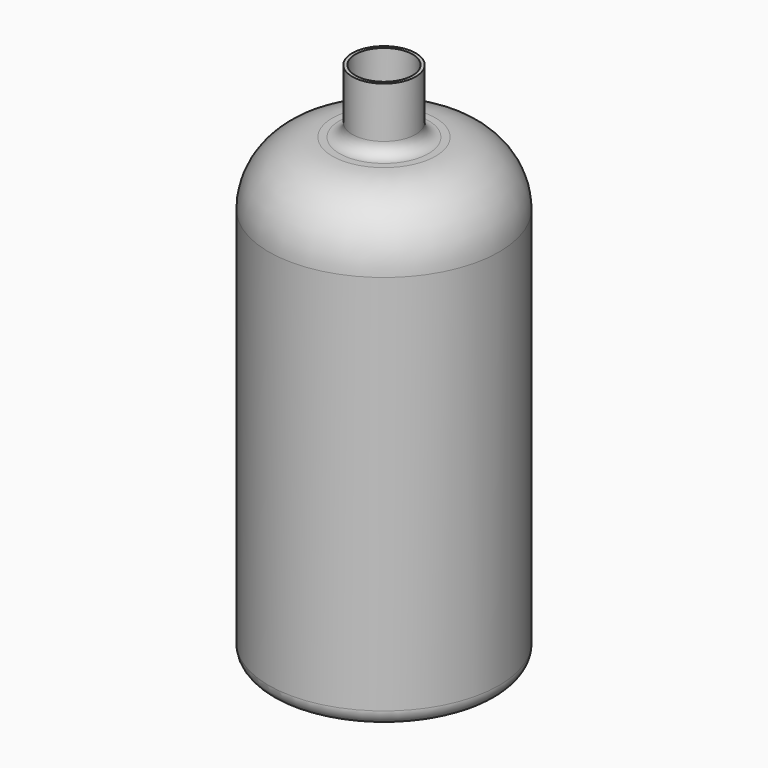
from build123d import *


with BuildPart() as f1:
    # F0 (on Front) → F1 (revolve)
    with BuildSketch(Plane.XZ):
        with BuildLine():
            Line((-39.6875, -104.775), (0, -104.775))
            Line((0, -104.775), (0, -103.505))
            Line((0, -103.505), (-39.6875, -103.505))
            ThreePointArc((-39.6875, -103.505), (-43.279602, -102.017102), (-44.7675, -98.425))
            Line((-44.7675, -98.425), (-44.7675, 53.975))
            ThreePointArc((-44.7675, 53.975), (-37.699987, 71.037487), (-20.6375, 78.105))
            Line((-20.6375, 78.105), (-17.78, 78.105))
            ThreePointArc((-17.78, 78.105), (-13.289872, 79.964872), (-11.43, 84.455))
            Line((-11.43, 84.455), (-11.43, 104.775))
            Line((-11.43, 104.775), (-12.7, 104.775))
            Line((-12.7, 104.775), (-12.7, 84.455))
            ThreePointArc((-12.7, 84.455), (-14.187898, 80.862898), (-17.78, 79.375))
            Line((-17.78, 79.375), (-20.6375, 79.375))
            ThreePointArc((-20.6375, 79.375), (-38.598012, 71.935512), (-46.0375, 53.975))
            Line((-46.0375, 53.975), (-46.0375, -98.425))
            ThreePointArc((-46.0375, -98.425), (-44.177628, -102.915128), (-39.6875, -104.775))
        make_face()
    revolve(axis=Axis((0, 0, 0), (0, 0, -1)))


solid = f1.part
